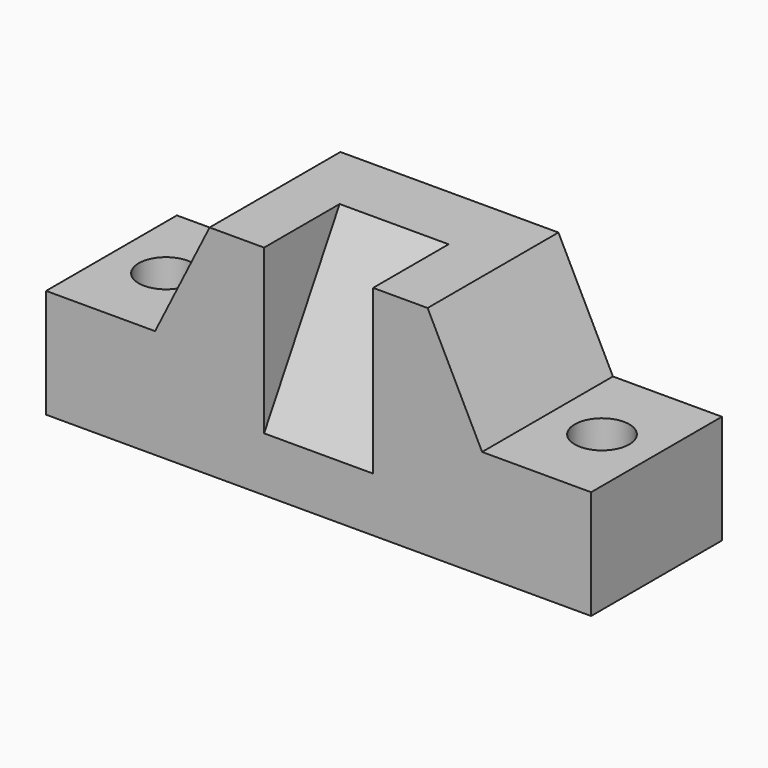
from build123d import *

# Parameters (mm, degrees)
F1_DEPTH = 19.05
F3_D     = 12.7
F3_DEPTH = 31.75
F6_DEPTH = 12.7


with BuildPart() as f1:
    # F0 (on Front) → F1 (new body, symmetric)
    with BuildSketch(Plane.XZ):
        Polygon((0, 25.4), (0, 0), (127, 0), (127, 25.4), (101.6, 25.4), (88.9, 50.8), (38.1, 50.8), (25.4, 25.4), align=None)
    extrude(amount=F1_DEPTH, both=True)

    # F3
    with Locations(Plane.XY.offset(25.4)):
        with Locations((12.7, 0), (114.3, 0)):
            Hole(F3_D / 2, depth=F3_DEPTH)

    # F5 (on offset) → F6 (cut, symmetric)
    with BuildSketch(Plane.YZ.offset(63.5)):
        Polygon((-19.05, 12.7), (2.947045, 50.8), (-19.05, 50.8), align=None)
    extrude(amount=F6_DEPTH, both=True, mode=Mode.SUBTRACT)


solid = f1.part
